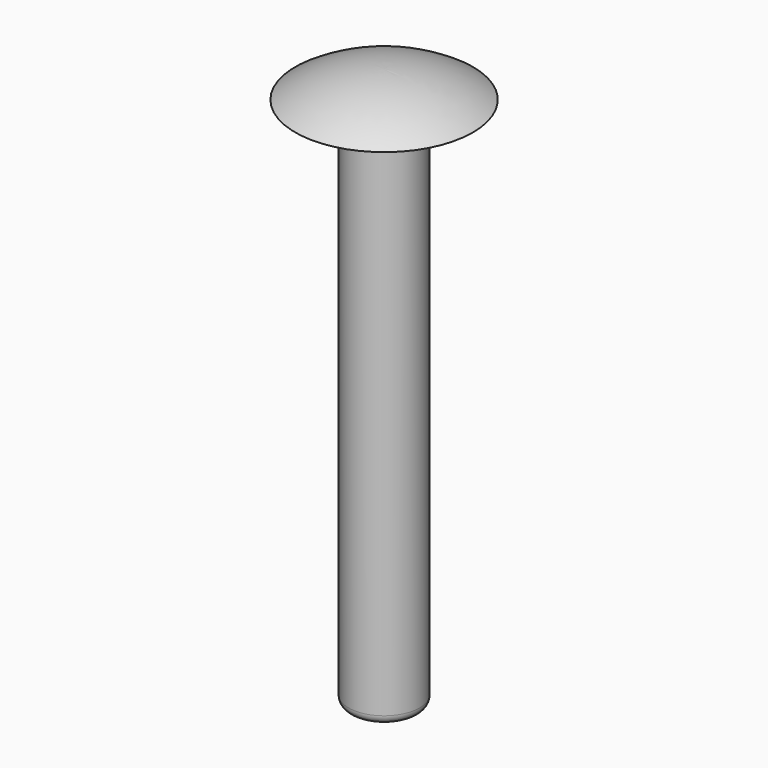
from build123d import *


with BuildPart() as f1:
    # F0 (on Front) → F1 (revolve)
    with BuildSketch(Plane.XZ):
        with BuildLine():
            Line((0, 3), (0, 0))
            Line((0, 0), (0, -60))
            Line((0, -60), (3, -60))
            ThreePointArc((3, -60), (3.707107, -59.707107), (4, -59))
            Line((4, -59), (4, 0))
            Line((4, 0), (10, 0))
            ThreePointArc((10, 0), (5.220153, 2.233844), (0, 3))
        make_face()
    revolve(axis=Axis((0, 0, -30), (0, 0, -1)))


solid = f1.part
